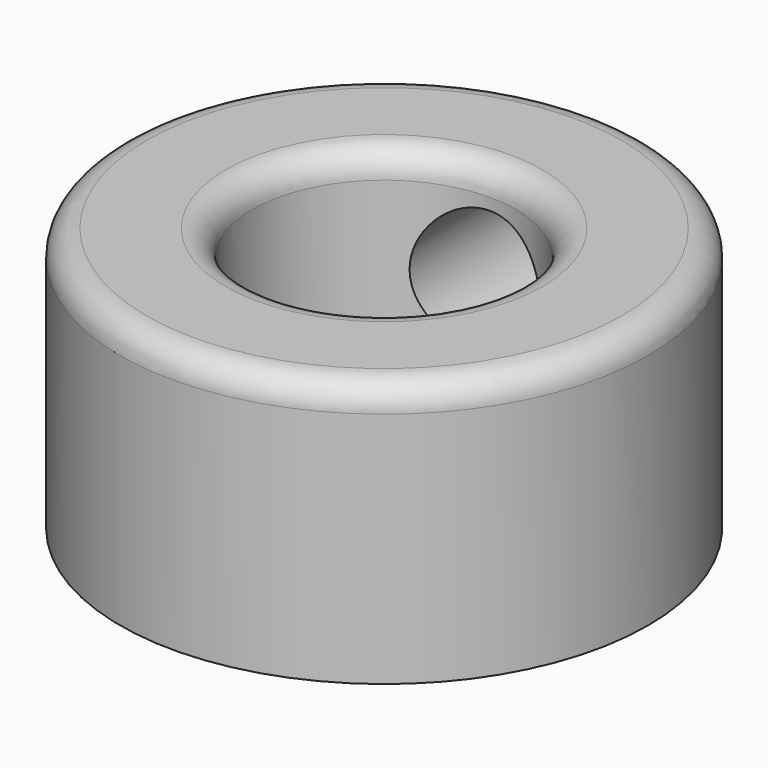
from build123d import *

# Parameters (mm, degrees)
F2_R     = 2.54
F3_R     = 6.35
F4_DEPTH = 25.401


with BuildPart() as f1:
    # F0 (on Front) → F1 (revolve)
    with BuildSketch(Plane.XZ):
        Polygon((0, 7.62), (0, 0), (25.4, 0), (25.4, 25.4), (12.7, 25.4), (12.7, 7.62), align=None)
    revolve(axis=Axis((0, 0, 3.81), (0, 0, -1)))

    # F2
    f2_edges = [f1.edges().sort_by_distance(p)[0] for p in [
        (-25.4, 0, 25.4),
        (-12.7, 0, 25.4),
    ]]
    fillet(f2_edges, radius=F2_R)

    # F3 (on Front) → F4 (cut, through all)
    with BuildSketch(Plane.XZ):
        with Locations((0, 15.365091)):
            Circle(F3_R)
    extrude(amount=-F4_DEPTH, mode=Mode.SUBTRACT)


solid = f1.part
